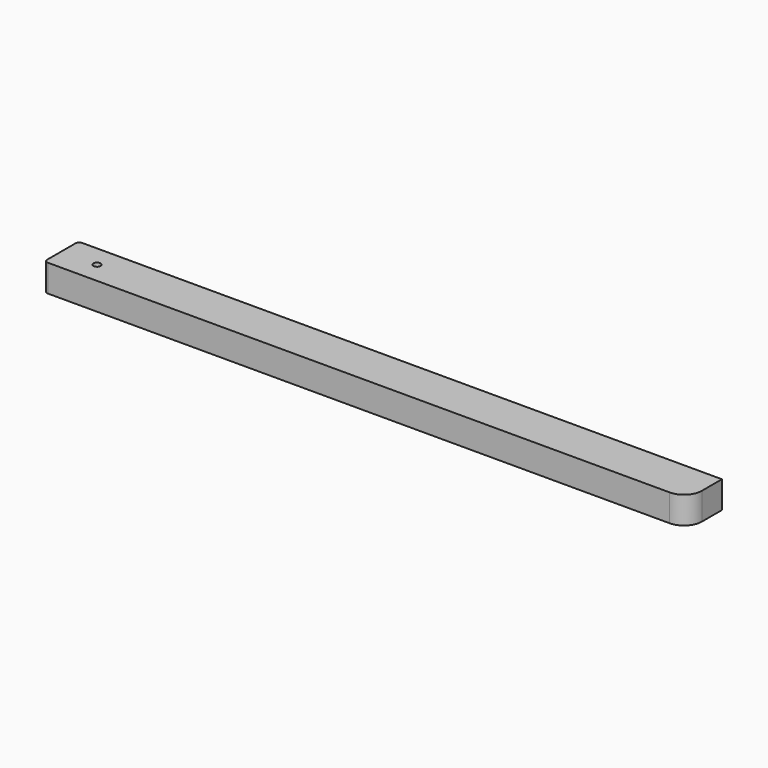
from build123d import *

# Parameters (mm, degrees)
F0_W     = 60
F0_H     = 38
F1_DEPTH = 900
F2_R     = 25
F3_R     = 5
F4_R     = 5
F5_DEPTH = 38.001


with BuildPart() as f1:
    # F0 (on Right) → F1 (new body)
    with BuildSketch(Plane.YZ):
        with Locations((-5.113847, 0)):
            Rectangle(F0_W, F0_H)
    extrude(amount=F1_DEPTH)

    # F2
    f2_edges = [f1.edges().sort_by_distance(p)[0] for p in [
        (900, -35.113847, 0),
    ]]
    fillet(f2_edges, radius=F2_R)

    # F3
    f3_edges = [f1.edges().sort_by_distance(p)[0] for p in [
        (0, 24.886153, 0),
        (0, -35.113847, 0),
    ]]
    fillet(f3_edges, radius=F3_R)

    # F4 (on face) → F5 (cut, through all)
    with BuildSketch(Plane.XY.offset(19)):
        with Locations((50, -5.113847)):
            Circle(F4_R)
    extrude(amount=-F5_DEPTH, mode=Mode.SUBTRACT)


solid = f1.part
